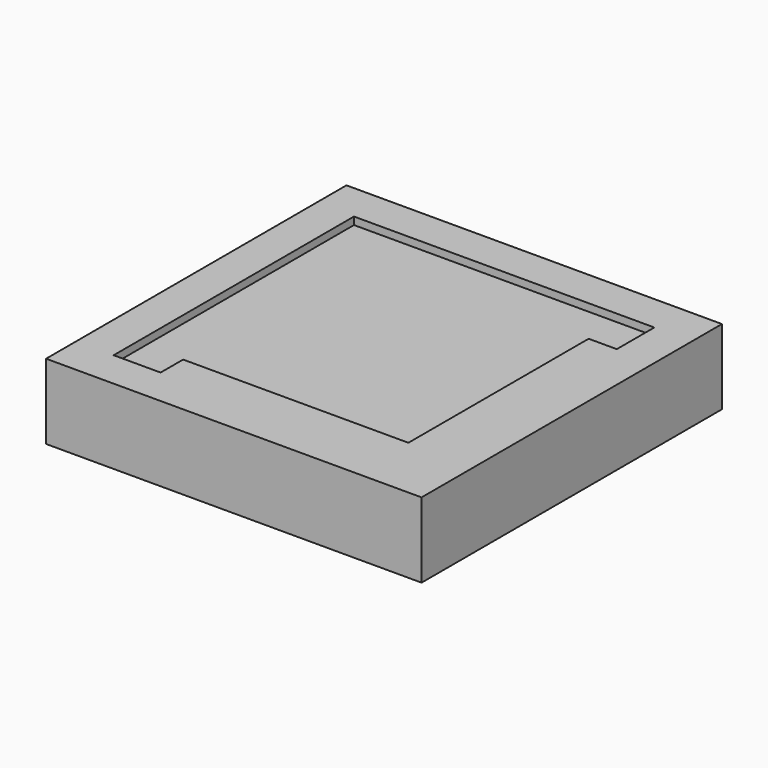
from build123d import *

# Parameters (mm, degrees)
F0_W     = 127
F0_H     = 127
F0_W_2   = 76.2
F0_H_2   = 76.2
F1_DEPTH = 25.4
F2_DEPTH = 2.54


with BuildPart() as f1:
    # F0 (on Top) → F1 (new body)
    with BuildSketch(Plane.XY):
        Rectangle(F0_W, F0_H)
        Polygon((-50.8, -50.8), (-50.8, 34.925), (-50.8, 50.8), (50.8, 50.8), (50.8, 34.925), (41.275, 34.925), (41.275, -41.275), (-34.925, -41.275), (-34.925, -50.8), align=None, mode=Mode.SUBTRACT)
        with Locations((3.175, -3.175)):
            Rectangle(F0_W_2, F0_H_2)
        Polygon((-34.925, 34.925), (-50.8, 34.925), (-50.8, -50.8), (-34.925, -50.8), (-34.925, -41.275), align=None)
        Polygon((-50.8, 50.8), (-50.8, 34.925), (-34.925, 34.925), (41.275, 34.925), (50.8, 34.925), (50.8, 50.8), align=None)
    extrude(amount=-F1_DEPTH)

    # F0 (on Top) → F2 (cut)
    with BuildSketch(Plane.XY):
        Polygon((-34.925, 34.925), (-50.8, 34.925), (-50.8, -50.8), (-34.925, -50.8), (-34.925, -41.275), align=None)
        Polygon((-50.8, 50.8), (-50.8, 34.925), (-34.925, 34.925), (41.275, 34.925), (50.8, 34.925), (50.8, 50.8), align=None)
        with Locations((3.175, -3.175)):
            Rectangle(F0_W_2, F0_H_2)
    extrude(amount=-F2_DEPTH, mode=Mode.SUBTRACT)


solid = f1.part
